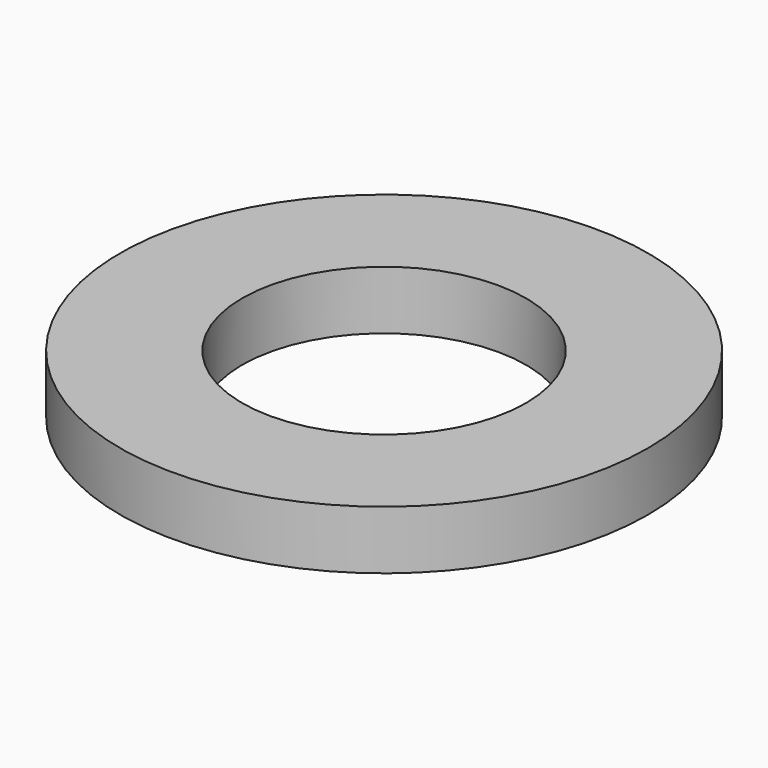
from build123d import *

# Parameters (mm, degrees)
SKETCH_R   = 4.5
SKETCH_R_2 = 2.42
PAD_DEPTH  = 1


with BuildPart() as part:
    # Sketch → Pad (new body)
    with BuildSketch(Plane.XY):
        Circle(SKETCH_R)
        Circle(SKETCH_R_2, mode=Mode.SUBTRACT)
    extrude(amount=PAD_DEPTH)


solid = part.part
